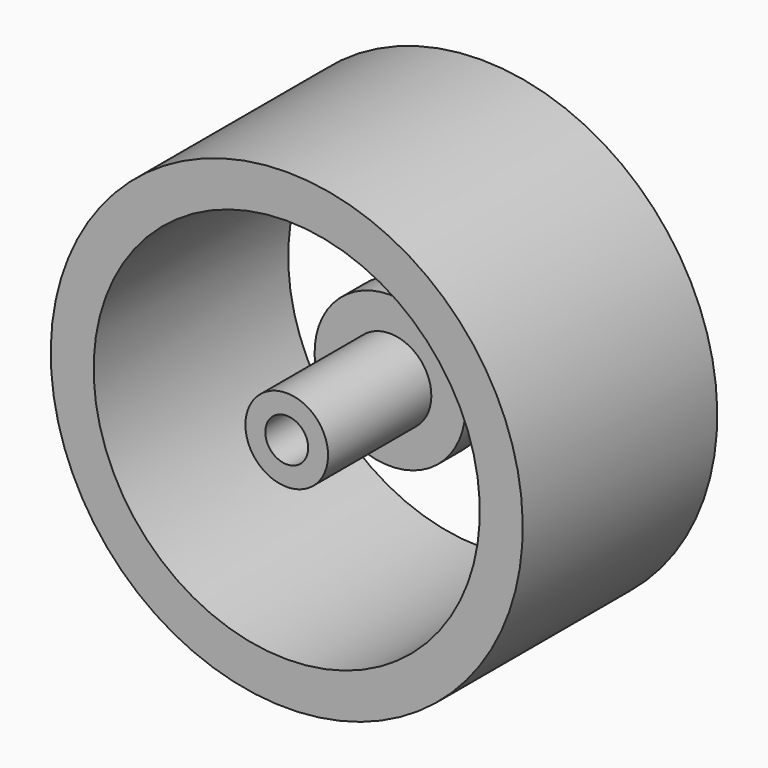
from build123d import *

# Parameters (mm, degrees)
F0_W = 17
F0_H = 3


with BuildPart() as f1:
    # F0 (on Right) → F1 (revolve)
    with BuildSketch(Plane.YZ):
        with Locations((8.5, 15)):
            Rectangle(F0_W, F0_H)
        Polygon((0, 2.890564), (0, 1.5), (11.155158, 1.5), (11.155158, 5.27289), (9.024319, 5.27289), (9.024319, 2.890564), align=None)
    revolve(axis=Axis((0, 8.5, 0), (0, 1, 0)))


solid = f1.part
